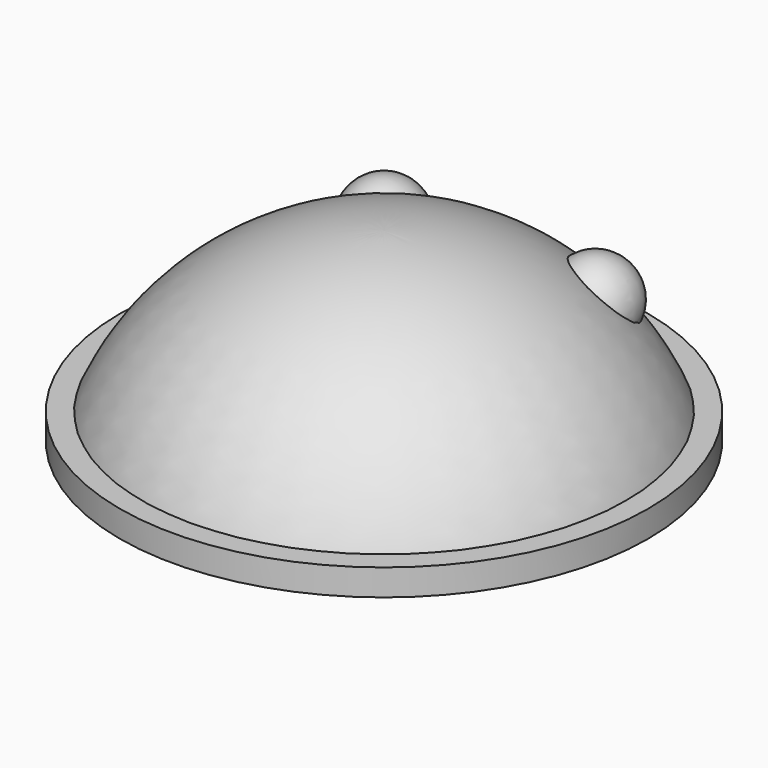
from build123d import *

# Parameters (mm, degrees)
CYLINDER_R     = 10
CYLINDER_DEPTH = 1


with BuildPart() as esfera:
    # Sphere → Sphere (revolve)
    with BuildSketch(Plane(origin=(0, 0, -3), x_dir=(1, 0, 0), z_dir=(0, -1, 0))):
        with BuildLine():
            ThreePointArc((9.396926, 3.420201), (5.735764, 8.19152), (0, 10))
            Line((0, 10), (0, 3.420201))
            Line((0, 3.420201), (9.396926, 3.420201))
        make_face()
    revolve(axis=Axis((0, 0, -3), (0, 0, 1)))


with BuildPart() as cilindre:
    # Cylinder → Cylinder (new body)
    with BuildSketch(Plane.XY):
        Circle(CYLINDER_R)
    extrude(amount=CYLINDER_DEPTH)


with BuildPart() as esfera001:
    # Sphere001 → Sphere001 (revolve)
    with BuildSketch(Plane(origin=(4, 5, 4), x_dir=(1, 0, 0), z_dir=(0, -1, 0))):
        with BuildLine():
            ThreePointArc((0, -1.5), (1.5, 0), (0, 1.5))
            Line((0, 1.5), (0, -1.5))
        make_face()
    revolve(axis=Axis((4, 5, 4), (0, 0, 1)))


with BuildPart() as esfera002:
    # Sphere002 → Sphere002 (revolve)
    with BuildSketch(Plane(origin=(-4, 5, 4), x_dir=(1, 0, 0), z_dir=(0, -1, 0))):
        with BuildLine():
            ThreePointArc((0, -1.5), (1.5, 0), (0, 1.5))
            Line((0, 1.5), (0, -1.5))
        make_face()
    revolve(axis=Axis((-4, 5, 4), (0, 0, 1)))


solid = Compound([esfera.part, cilindre.part, esfera001.part, esfera002.part])
